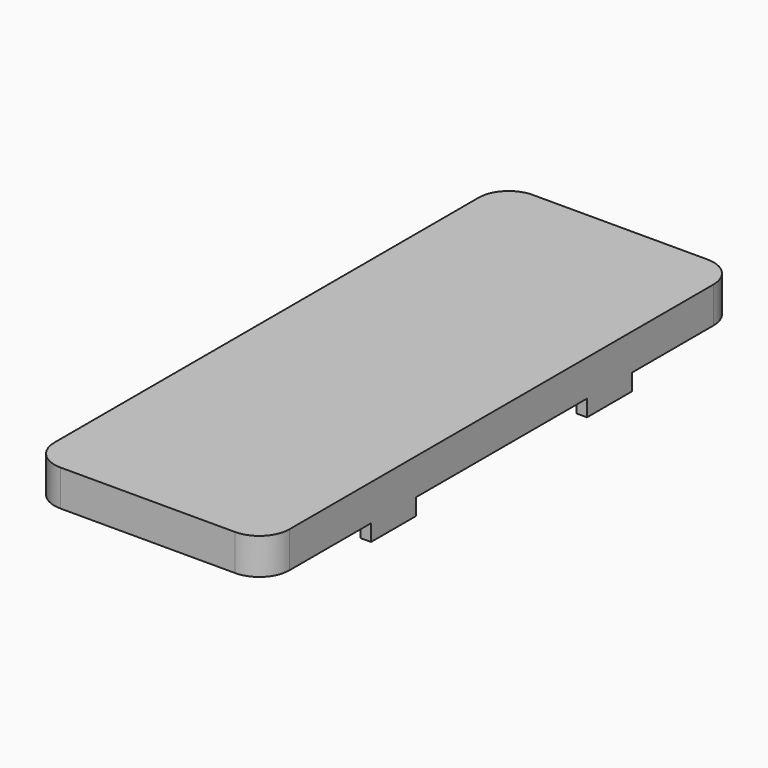
from build123d import *

# Parameters (mm, degrees)
SKETCH001_W     = 31.2
SKETCH001_H     = 78.4
PAD001_DEPTH    = 4
SKETCH002_W     = 31.2
SKETCH002_H     = 78.4
PAD002_DEPTH    = 0.8
SKETCH006_W     = 4
SKETCH006_H     = 2
POCKET001_DEPTH = 5
SKETCH009_W     = 1.4
SKETCH009_H     = 7.45
PAD006_DEPTH    = 2.2
FILLET001_R     = 4


with BuildPart() as part:
    # Sketch001 → Pad001 (new body)
    with BuildSketch(Plane.XY):
        with Locations((15.6, -39.2)):
            Rectangle(SKETCH001_W, SKETCH001_H)
        Polygon((3, -2), (28.2, -2), (28.2, -76.9), (3, -76.9), (3, -70.886093), (1, -70.886093), (1, -57.206394), (3, -57.206394), align=None, mode=Mode.SUBTRACT)
    extrude(amount=PAD001_DEPTH)

    # Sketch002 (on Face14 of Pad001) → Pad002 (join)
    with BuildSketch(Plane.XY.offset(4)):
        with Locations((15.6, -39.2)):
            Rectangle(SKETCH002_W, SKETCH002_H)
    extrude(amount=PAD002_DEPTH)

    # Sketch006 (on Face1 of Pad002) → Pocket001 (cut)
    with BuildSketch(Plane(origin=(0, 0, 0), x_dir=(-1, 0, 0), z_dir=(0, 1, 0))):
        with Locations((-15.6, 1)):
            Rectangle(SKETCH006_W, SKETCH006_H)
    extrude(amount=-POCKET001_DEPTH, mode=Mode.SUBTRACT)

    # Sketch009 (on Face4 of Pad002) → Pad006 (join)
    with BuildSketch(Plane(origin=(0, 0, 0), x_dir=(1, 0, 0), z_dir=(0, 0, -1))):
        with Locations((0.7, 57.125)):
            Rectangle(SKETCH009_W, SKETCH009_H)
        with Locations((0.7, 21.275)):
            Rectangle(SKETCH009_W, SKETCH009_H)
        with Locations((30.5, 21.275)):
            Rectangle(SKETCH009_W, SKETCH009_H)
        with Locations((30.5, 57.125)):
            Rectangle(SKETCH009_W, SKETCH009_H)
    extrude(amount=PAD006_DEPTH)

    # Fillet001
    fillet001_edges = [part.edges().sort_by_distance(p)[0] for p in [
        (0, -78.4, 2),
        (0, 0, 2),
        (31.2, -78.4, 2),
        (31.2, 0, 2),
    ]]
    fillet(fillet001_edges, radius=FILLET001_R)


with BuildPart() as part_1:
    # Body001 placement: moved
    add(part.part.moved(Location((0, 0, 6))))


solid = part_1.part
